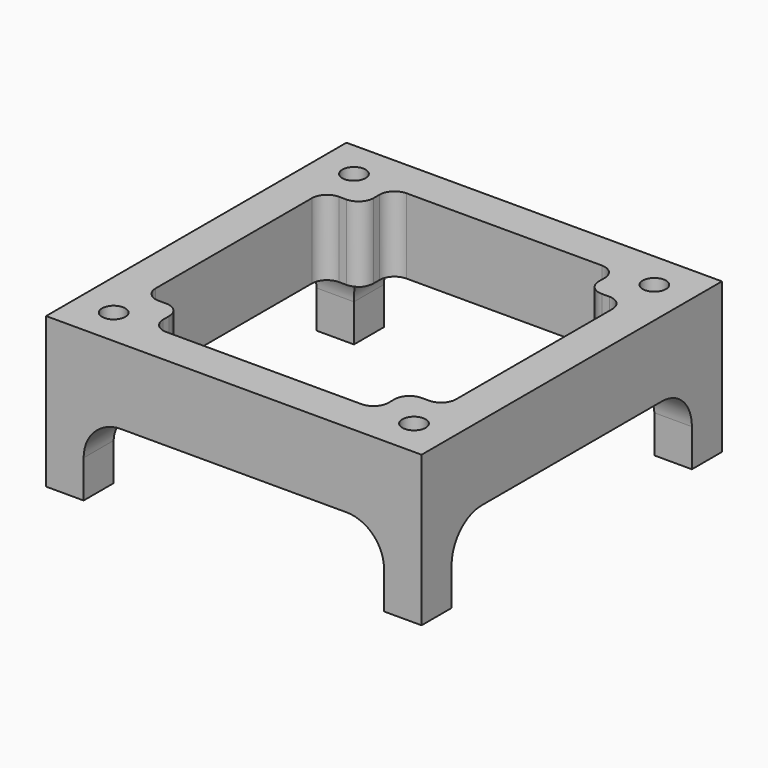
from build123d import *

# Parameters (mm, degrees)
SKETCH081_W             = 50
SKETCH081_H             = 50
PAD014_DEPTH            = 20
POCKET068_DEPTH         = 20.001
POCKET069_DEPTH         = 50.001
POCKET070_DEPTH         = 50.001
SKETCH085_R             = 1.55
POCKET071_DEPTH         = 5
SKETCH086_R             = 1.55
POCKET072_DEPTH         = 3
BODY015_PLACEMENT_ANGLE = 90


with BuildPart() as part:
    # Sketch081 → Pad014 (new body)
    with BuildSketch(Plane.XY):
        Rectangle(SKETCH081_W, SKETCH081_H)
    extrude(amount=PAD014_DEPTH)

    # Sketch082 (on Face6 of Pad014) → Pocket068 (cut, through all)
    with BuildSketch(Plane.XY.offset(20)):
        with BuildLine():
            Line((-18, 15), (-17, 15))
            ThreePointArc((-17, 15), (-15.585786, 15.585786), (-15, 17))
            Line((-15, 17), (-15, 18))
            ThreePointArc((-13, 20), (-14.414214, 19.414214), (-15, 18))
            Line((-13, 20), (13, 20))
            ThreePointArc((15, 18), (14.414214, 19.414214), (13, 20))
            Line((15, 18), (15, 17))
            ThreePointArc((15, 17), (15.585786, 15.585786), (17, 15))
            Line((17, 15), (18, 15))
            ThreePointArc((20, 13), (19.414214, 14.414214), (18, 15))
            Line((20, 13), (20, -13))
            ThreePointArc((18, -15), (19.414214, -14.414214), (20, -13))
            Line((18, -15), (17, -15))
            ThreePointArc((17, -15), (15.585786, -15.585786), (15, -17))
            Line((15, -17), (15, -18))
            ThreePointArc((13, -20), (14.414214, -19.414214), (15, -18))
            Line((13, -20), (-13, -20))
            ThreePointArc((-15, -18), (-14.414214, -19.414214), (-13, -20))
            Line((-15, -18), (-15, -17))
            ThreePointArc((-15, -17), (-15.585786, -15.585786), (-17, -15))
            Line((-17, -15), (-18, -15))
            ThreePointArc((-20, -13), (-19.414214, -14.414214), (-18, -15))
            Line((-20, -13), (-20, 13))
            ThreePointArc((-18, 15), (-19.414214, 14.414214), (-20, 13))
        make_face()
    extrude(amount=-POCKET068_DEPTH, mode=Mode.SUBTRACT)

    # Sketch083 (on Face3 of Pocket068) → Pocket069 (cut, through all)
    with BuildSketch(Plane.YZ.offset(25)):
        with BuildLine():
            Line((-15, 10), (15, 10))
            ThreePointArc((20, 5), (18.535534, 8.535534), (15, 10))
            Line((20, 5), (20, 0))
            Line((20, 0), (-20, 0))
            Line((-20, 0), (-20, 5))
            ThreePointArc((-15, 10), (-18.535534, 8.535534), (-20, 5))
        make_face()
    extrude(amount=-POCKET069_DEPTH, mode=Mode.SUBTRACT)

    # Sketch084 (on Face6 of Pocket068) → Pocket070 (cut, through all)
    with BuildSketch(Plane.XZ.offset(25)):
        with BuildLine():
            Line((-15, 10), (15, 10))
            ThreePointArc((20, 5), (18.535534, 8.535534), (15, 10))
            Line((20, 5), (20, 0))
            Line((20, 0), (-20, 0))
            Line((-20, 0), (-20, 5))
            ThreePointArc((-15, 10), (-18.535534, 8.535534), (-20, 5))
        make_face()
    extrude(amount=-POCKET070_DEPTH, mode=Mode.SUBTRACT)

    # Sketch085 → Pocket071 (cut)
    with BuildSketch(Plane.XY.offset(20)):
        with Locations((-20, 20)):
            Circle(SKETCH085_R)
        with Locations((20, 20)):
            Circle(SKETCH085_R)
        with Locations((20, -20)):
            Circle(SKETCH085_R)
        with Locations((-20, -20)):
            Circle(SKETCH085_R)
    extrude(amount=-POCKET071_DEPTH, mode=Mode.SUBTRACT)

    # Sketch086 (on Face27 of Pocket071) → Pocket072 (cut)
    with BuildSketch(Plane.XZ.offset(25)):
        with Locations((-20, 14)):
            Circle(SKETCH086_R)
        with Locations((20, 14)):
            Circle(SKETCH086_R)
    extrude(amount=-POCKET072_DEPTH, mode=Mode.SUBTRACT)


with BuildPart() as part_1:
    # Body015 placement: moved
    add(part.part.moved(Location((25, 85, 0))).rotate(Axis((25, 85, 0), (0, 0, -1)), BODY015_PLACEMENT_ANGLE))


solid = part_1.part
